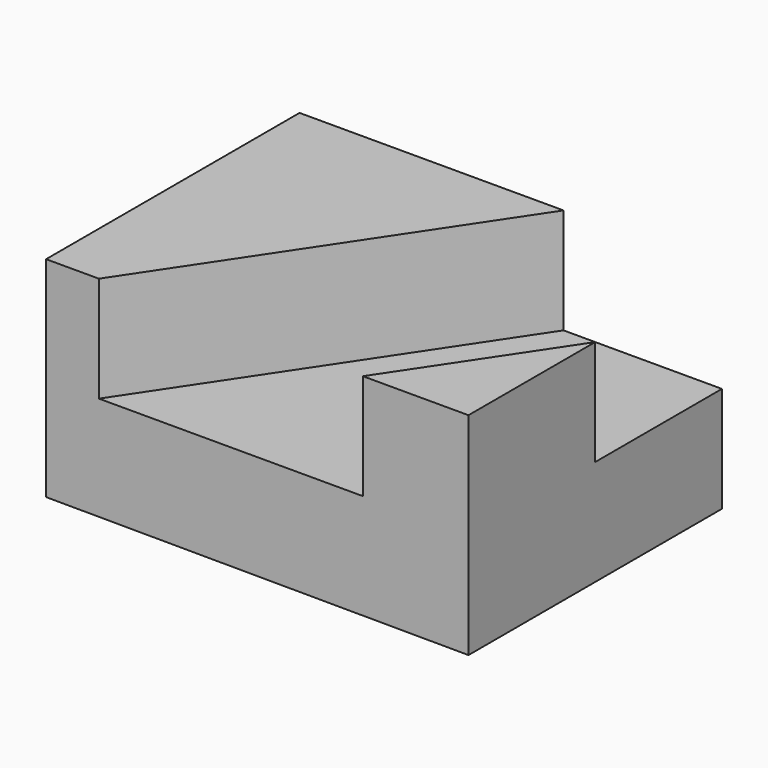
from build123d import *

# Parameters (mm, degrees)
F1_DEPTH = 38.1
F3_DEPTH = 12.7
F5_DEPTH = 12.7


with BuildPart() as f1:
    # F0 (on Front) → F1 (new body)
    with BuildSketch(Plane.XZ):
        Polygon((-43.8595663223, 41.7336960351), (-43.8595663223, 16.5436111161), (6.9399999717, 16.3336960351), (6.9399999717, 41.7336960351), align=None)
    extrude(amount=F1_DEPTH)

    # F2 (on face) → F3 (cut)
    with BuildSketch(Plane.XY.offset(41.7336960351)):
        Polygon((-12.1100000283, 0), (-37.5095663223, -38.1), (6.9399999717, -38.1), (6.9399999717, 0), align=None)
    extrude(amount=-F3_DEPTH, mode=Mode.SUBTRACT)

    # F4 (on face) → F5 (join)
    with BuildSketch(Plane.XY.offset(29.0336960351)):
        Polygon((6.9399999717, -19.05), (-5.7600000283, -38.1), (6.9399999717, -38.1), align=None)
    extrude(amount=F5_DEPTH)


solid = f1.part
